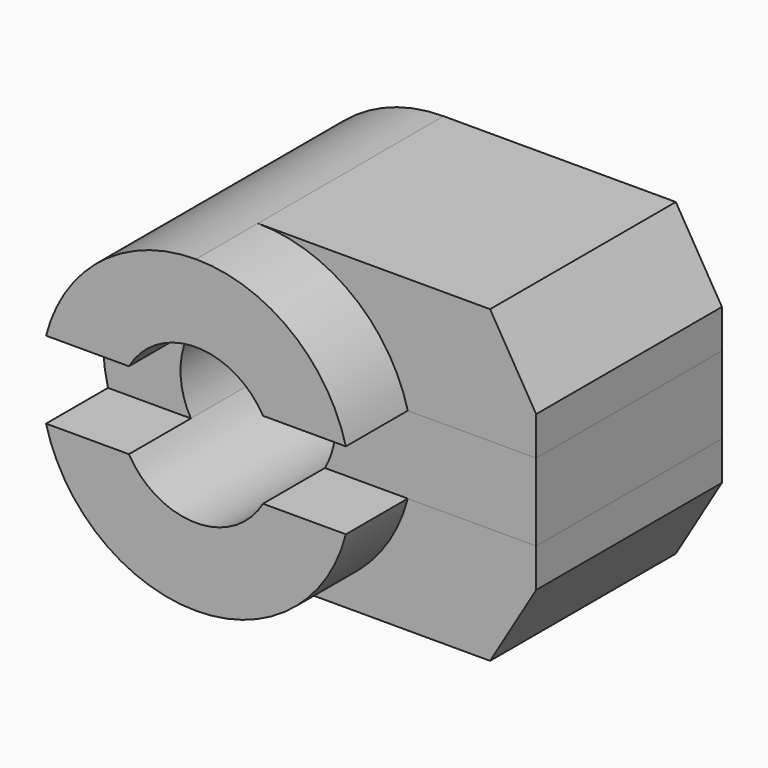
from build123d import *

# Parameters (mm, degrees)
F1_DEPTH = 20
F2_DEPTH = 15
F3_DEPTH = 15


with BuildPart() as f1:
    # F0 (on Front) → F1 (new body)
    with BuildSketch(Plane.XZ):
        with BuildLine():
            ThreePointArc((9.6824583655, 2.5), (6.123724357, 7.9056941504), (0, 10))
            ThreePointArc((0, 10), (-6.123724357, 7.9056941504), (-9.6824583655, 2.5))
            Line((-9.6824583655, 2.5), (-4.3301270189, 2.5))
            ThreePointArc((-4.3301270189, 2.5), (0, 5), (4.3301270189, 2.5))
            Line((4.3301270189, 2.5), (9.6824583655, 2.5))
        make_face()
    extrude(amount=F1_DEPTH)


with BuildPart() as f1b:
    # F0 (on Front) → F1, piece 2 (new body)
    with BuildSketch(Plane.XZ):
        with BuildLine():
            Line((-4.3301270189, -2.5), (-9.6824583655, -2.5))
            ThreePointArc((-9.6824583655, -2.5), (-6.123724357, -7.9056941504), (0, -10))
            ThreePointArc((0, -10), (6.123724357, -7.9056941504), (9.6824583655, -2.5))
            Line((9.6824583655, -2.5), (4.3301270189, -2.5))
            ThreePointArc((4.3301270189, -2.5), (0, -5), (-4.3301270189, -2.5))
        make_face()
    extrude(amount=F1_DEPTH)


with BuildPart() as f2:
    # F0 (on Front) → F2 (new body)
    with BuildSketch(Plane.XZ):
        with BuildLine():
            Line((15, 10), (0, 10))
            ThreePointArc((0, 10), (6.123724357, 7.9056941504), (9.6824583655, 2.5))
            Line((9.6824583655, 2.5), (17.9773463092, 2.5))
            Line((17.9773463092, 2.5), (17.9773463092, 5))
            Line((17.9773463092, 5), (15, 10))
        make_face()
    extrude(amount=F2_DEPTH)


with BuildPart() as f2b:
    # F0 (on Front) → F2, piece 2 (new body)
    with BuildSketch(Plane.XZ):
        with BuildLine():
            ThreePointArc((9.6824583655, -2.5), (6.123724357, -7.9056941504), (0, -10))
            Line((0, -10), (15, -10))
            Line((15, -10), (17.9773463092, -5))
            Line((17.9773463092, -5), (17.9773463092, -2.5))
            Line((17.9773463092, -2.5), (9.6824583655, -2.5))
        make_face()
    extrude(amount=F2_DEPTH)


with BuildPart() as f3:
    # F0 (on Front) → F3 (new body)
    with BuildSketch(Plane.XZ):
        with BuildLine():
            Line((17.9773463092, 2.5), (9.6824583655, 2.5))
            ThreePointArc((9.6824583655, 2.5), (9.9202969627, 1.2600429248), (10, 0))
            ThreePointArc((10, 0), (9.9202969627, -1.2600429248), (9.6824583655, -2.5))
            Line((9.6824583655, -2.5), (17.9773463092, -2.5))
            Line((17.9773463092, -2.5), (17.9773463092, 2.5))
        make_face()
        with BuildLine():
            ThreePointArc((10, 0), (9.9202969627, 1.2600429248), (9.6824583655, 2.5))
            Line((9.6824583655, 2.5), (4.3301270189, 2.5))
            ThreePointArc((4.3301270189, 2.5), (4.8296291314, 1.2940952255), (5, 0))
            ThreePointArc((5, 0), (4.8296291314, -1.2940952255), (4.3301270189, -2.5))
            Line((4.3301270189, -2.5), (9.6824583655, -2.5))
            ThreePointArc((9.6824583655, -2.5), (9.9202969627, -1.2600429248), (10, 0))
        make_face()
    extrude(amount=F3_DEPTH)


with BuildPart() as f3b:
    # F0 (on Front) → F3, piece 2 (new body)
    with BuildSketch(Plane.XZ):
        with BuildLine():
            Line((-4.3301270189, 2.5), (-9.6824583655, 2.5))
            ThreePointArc((-9.6824583655, 2.5), (-10, 0), (-9.6824583655, -2.5))
            Line((-9.6824583655, -2.5), (-4.3301270189, -2.5))
            ThreePointArc((-4.3301270189, -2.5), (-5, 0), (-4.3301270189, 2.5))
        make_face()
    extrude(amount=F3_DEPTH)


solid = Compound([f1.part, f1b.part, f2.part, f2b.part, f3.part, f3b.part])
